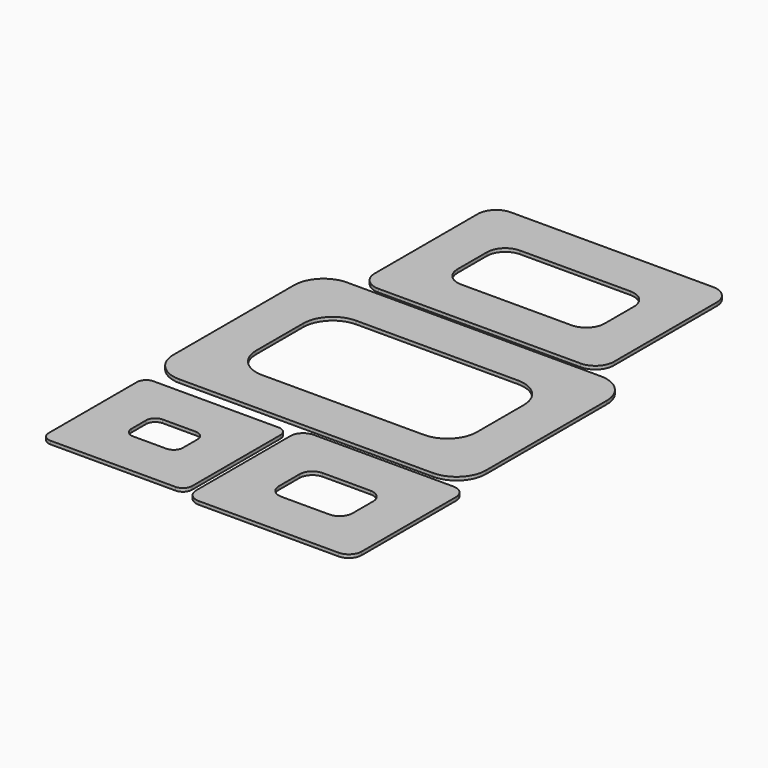
from build123d import *

# Parameters (mm, degrees)
F1_DEPTH = 0.9


with BuildPart() as f1:
    # F0 (on Top) → F1 (new body)
    with BuildSketch(Plane.XY):
        with BuildLine():
            Line((-38.215932, -67.632949), (-4.215932, -67.632949))
            ThreePointArc((-4.215932, -67.632949), (-2.448165, -66.900716), (-1.715932, -65.132949))
            Line((-1.715932, -65.132949), (-1.715932, -35.132949))
            ThreePointArc((-1.715932, -35.132949), (-2.448165, -33.365182), (-4.215932, -32.632949))
            Line((-4.215932, -32.632949), (-38.215932, -32.632949))
            ThreePointArc((-38.215932, -32.632949), (-39.983699, -33.365182), (-40.715932, -35.132949))
            Line((-40.715932, -35.132949), (-40.715932, -65.132949))
            ThreePointArc((-40.715932, -65.132949), (-39.983699, -66.900716), (-38.215932, -67.632949))
        make_face()
        with BuildLine():
            ThreePointArc((-14.215932, -52.632949), (-14.948165, -54.400716), (-16.715932, -55.132949))
            Line((-16.715932, -55.132949), (-25.715932, -55.132949))
            ThreePointArc((-25.715932, -55.132949), (-27.483699, -54.400716), (-28.215932, -52.632949))
            Line((-28.215932, -52.632949), (-28.215932, -47.632949))
            ThreePointArc((-28.215932, -47.632949), (-27.483699, -45.865182), (-25.715932, -45.132949))
            Line((-25.715932, -45.132949), (-16.715932, -45.132949))
            ThreePointArc((-16.715932, -45.132949), (-14.948165, -45.865182), (-14.215932, -47.632949))
            Line((-14.215932, -47.632949), (-14.215932, -52.632949))
        make_face(mode=Mode.SUBTRACT)
        with BuildLine():
            Line((3.703378, -69.632949), (41.703378, -69.632949))
            ThreePointArc((41.703378, -69.632949), (44.178252, -68.607823), (45.203378, -66.132949))
            Line((45.203378, -66.132949), (45.203378, -34.132949))
            ThreePointArc((45.203378, -34.132949), (44.178252, -31.658075), (41.703378, -30.632949))
            Line((41.703378, -30.632949), (3.703378, -30.632949))
            ThreePointArc((3.703378, -30.632949), (1.228505, -31.658075), (0.203378, -34.132949))
            Line((0.203378, -34.132949), (0.203378, -66.132949))
            ThreePointArc((0.203378, -66.132949), (1.228505, -68.607823), (3.703378, -69.632949))
        make_face()
        with BuildLine():
            ThreePointArc((32.703378, -53.632949), (31.678252, -56.107823), (29.203378, -57.132949))
            Line((29.203378, -57.132949), (16.203378, -57.132949))
            ThreePointArc((16.203378, -57.132949), (13.728505, -56.107823), (12.703378, -53.632949))
            Line((12.703378, -53.632949), (12.703378, -46.632949))
            ThreePointArc((12.703378, -46.632949), (13.728505, -44.158075), (16.203378, -43.132949))
            Line((16.203378, -43.132949), (29.203378, -43.132949))
            ThreePointArc((29.203378, -43.132949), (31.678252, -44.158075), (32.703378, -46.632949))
            Line((32.703378, -46.632949), (32.703378, -53.632949))
        make_face(mode=Mode.SUBTRACT)
        with BuildLine():
            Line((-34.5, -28.5), (34.5, -28.5))
            ThreePointArc((34.5, -28.5), (40.156854, -26.156854), (42.5, -20.5))
            Line((42.5, -20.5), (42.5, 20.5))
            ThreePointArc((42.5, 20.5), (40.156854, 26.156854), (34.5, 28.5))
            Line((34.5, 28.5), (-34.5, 28.5))
            ThreePointArc((-34.5, 28.5), (-40.156854, 26.156854), (-42.5, 20.5))
            Line((-42.5, 20.5), (-42.5, -20.5))
            ThreePointArc((-42.5, -20.5), (-40.156854, -26.156854), (-34.5, -28.5))
        make_face()
        with BuildLine():
            ThreePointArc((30, -8), (27.656854, -13.656854), (22, -16))
            Line((22, -16), (-22, -16))
            ThreePointArc((-22, -16), (-27.656854, -13.656854), (-30, -8))
            Line((-30, -8), (-30, 8))
            ThreePointArc((-30, 8), (-27.656854, 13.656854), (-22, 16))
            Line((-22, 16), (22, 16))
            ThreePointArc((22, 16), (27.656854, 13.656854), (30, 8))
            Line((30, 8), (30, -8))
        make_face(mode=Mode.SUBTRACT)
        with BuildLine():
            Line((-27.5, 30.415271), (27.5, 30.415271))
            ThreePointArc((27.5, 30.415271), (31.035534, 31.879737), (32.5, 35.415271))
            Line((32.5, 35.415271), (32.5, 70.415271))
            ThreePointArc((32.5, 70.415271), (31.035534, 73.950805), (27.5, 75.415271))
            Line((27.5, 75.415271), (-27.5, 75.415271))
            ThreePointArc((-27.5, 75.415271), (-31.035534, 73.950805), (-32.5, 70.415271))
            Line((-32.5, 70.415271), (-32.5, 35.415271))
            ThreePointArc((-32.5, 35.415271), (-31.035534, 31.879737), (-27.5, 30.415271))
        make_face()
        with BuildLine():
            ThreePointArc((20, 47.915271), (18.535534, 44.379737), (15, 42.915271))
            Line((15, 42.915271), (-15, 42.915271))
            ThreePointArc((-15, 42.915271), (-18.535534, 44.379737), (-20, 47.915271))
            Line((-20, 47.915271), (-20, 57.915271))
            ThreePointArc((-20, 57.915271), (-18.535534, 61.450805), (-15, 62.915271))
            Line((-15, 62.915271), (15, 62.915271))
            ThreePointArc((15, 62.915271), (18.535534, 61.450805), (20, 57.915271))
            Line((20, 57.915271), (20, 47.915271))
        make_face(mode=Mode.SUBTRACT)
    extrude(amount=F1_DEPTH)


solid = f1.part
